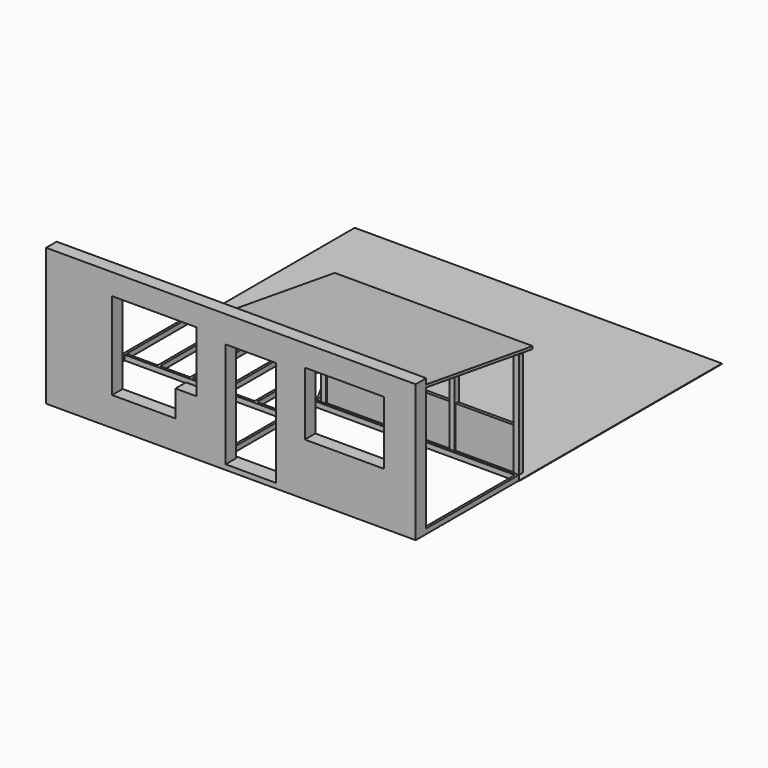
from build123d import *

# Parameters (mm, degrees)
F0_W      = 4.5
F0_H      = 4.5
F0_W_2    = 306
F0_H_2    = 151
F0_W_3    = 380.5
F0_H_3    = 185.5
F1_DEPTH  = 9.5
F2_W      = 150
F2_H      = 120
F3_DEPTH  = 25
F5_DEPTH  = 1
F8_DEPTH  = 260.001
F9_W      = 10
F9_H      = 10
F10_DEPTH = 200
F12_DEPTH = 375
F14_START = -2
F13_W     = 111.6666666667
F13_H     = 78.7117450237
F14_DEPTH = 6


with BuildPart() as f1:
    # F0 (on Top) → F1 (new body)
    with BuildSketch(Plane.XY):
        with Locations((-697.75, 2.25)):
            Rectangle(F0_W, F0_H)
        with Locations((-2.25, 217.75)):
            Rectangle(F0_W, F0_H)
        Polygon((-385, 0), (0, 0), (0, 215.5), (-4.5, 215.5), (-4.5, 4.5), (-385, 4.5), align=None)
        with Locations((-387.25, 2.25)):
            Rectangle(F0_W, F0_H)
        with Locations((-542.5, 2.25)):
            Rectangle(F0_W_2, F0_H)
        with Locations((-697.75, 80)):
            Rectangle(F0_W, F0_H_2)
        with Locations((-697.75, 157.75)):
            Rectangle(F0_W, F0_H)
        with Locations((-194.75, 217.75)):
            Rectangle(F0_W_3, F0_H)
        Polygon((-452.95, 160), (-448.45, 160), (-448.45, 337.8595075378), (-452.6587458478, 345.5), (-452.7784972623, 345.5), (-452.95, 341.9441229224), align=None)
        Polygon((-385, 160), (-385, 215.5), (-385, 220), (-385, 232), (-450, 350), (-700, 350), (-700, 160), (-695.5, 160), (-695.5, 345.5), (-636.55, 345.5), (-632.05, 345.5), (-575.35, 345.5), (-570.85, 345.5), (-514.15, 345.5), (-509.65, 345.5), (-452.7784972623, 345.5), (-452.6587458478, 345.5), (-448.45, 337.8595075378), (-389.5, 230.8425844609), (-389.5, 160), align=None)
        with Locations((-511.9, 252.75)):
            Rectangle(F0_W, F0_H_3)
        with Locations((-573.1, 252.75)):
            Rectangle(F0_W, F0_H_3)
        with Locations((-634.3, 252.75)):
            Rectangle(F0_W, F0_H_3)
        Polygon((-695.5, 155.5), (-389.5, 155.5), (-389.5, 160), (-448.45, 160), (-452.95, 160), (-509.65, 160), (-514.15, 160), (-570.85, 160), (-575.35, 160), (-632.05, 160), (-636.55, 160), (-695.5, 160), align=None)
        with Locations((-387.25, 157.75)):
            Rectangle(F0_W, F0_H)
        with Locations((-387.25, 80)):
            Rectangle(F0_W, F0_H_2)
    extrude(amount=F1_DEPTH)

    # F2 (on face) → F3 (join)
    with BuildSketch(Plane.XZ):
        Polygon((-700, 0), (0, 0), (0, 9.5), (-265, 9.5), (-360, 9.5), (-700, 9.5), align=None)
        Polygon((-265, 9.5), (0, 9.5), (0, 260), (-700, 260), (-700, 9.5), (-360, 9.5), (-360, 209.5), (-265, 209.5), align=None)
        Polygon((-455, 220), (-415, 220), (-415, 105), (-455, 105), (-455, 55), (-575, 55), (-575, 220), align=None, mode=Mode.SUBTRACT)
        with Locations((-135, 159.5)):
            Rectangle(F2_W, F2_H, mode=Mode.SUBTRACT)
    extrude(amount=F3_DEPTH)

    # F4 (on face) → F5 (join)
    with BuildSketch(Plane(origin=(0, 0, 0), x_dir=(1, 0, 0), z_dir=(0, 0, -1))):
        Polygon((0, -700), (0, -220), (-385, -220), (-385, -232), (-450, -350), (-695.5, -350), (-695.5, -700), align=None)
    extrude(amount=F5_DEPTH)

    # F7 (on face) → F8 (cut, through all)
    with BuildSketch(Plane.XY):
        Polygon((-695.5, 350), (-450, 350), (-385, 232), (-385, 220), (0, 220), (0, 700), (-695.5, 700), align=None)
    extrude(amount=F8_DEPTH, mode=Mode.SUBTRACT)

    # F9 (on face) → F10 (join)
    with BuildSketch(Plane.XY.offset(9.5)):
        with Locations((-5, 224.4888156652)):
            Rectangle(F9_W, F9_H)
        with Locations((-370, 224.4888156652)):
            Rectangle(F9_W, F9_H)
        with Locations((-248.3333333333, 224.4888156652)):
            Rectangle(F9_W, F9_H)
        with Locations((-126.6666666667, 224.4888156652)):
            Rectangle(F9_W, F9_H)
    extrude(amount=F10_DEPTH)


with BuildPart() as f12:
    # F11 (on face) → F12 (new body, through all)
    with BuildSketch(Plane.YZ):
        Polygon((251.3053696533, 206.1726945391), (252.0592171334, 211.1155392642), (0, 249.5578161747), (0, 244.5), (229.4888156652, 209.5), align=None)
    extrude(amount=-F12_DEPTH)


with BuildPart() as f14:
    # F13 (on face) → F14 (new body)
    with BuildSketch(Plane(origin=(0, 229.4888156652, 0), x_dir=(-1, 0, 0), z_dir=(0, 1, 0)).offset(F14_START)):
        with Locations((65.8333333333, 48.8558725119)):
            Rectangle(F13_W, F13_H)
    extrude(amount=-F14_DEPTH)


with BuildPart() as f14b:
    # F13 (on face) → F14, piece 2 (new body)
    with BuildSketch(Plane(origin=(0, 229.4888156652, 0), x_dir=(-1, 0, 0), z_dir=(0, 1, 0)).offset(F14_START)):
        with Locations((187.5, 48.8558725119)):
            Rectangle(F13_W, F13_H)
    extrude(amount=-F14_DEPTH)


with BuildPart() as f14c:
    # F13 (on face) → F14, piece 3 (new body)
    with BuildSketch(Plane(origin=(0, 229.4888156652, 0), x_dir=(-1, 0, 0), z_dir=(0, 1, 0)).offset(F14_START)):
        with Locations((309.1666666667, 48.8558725119)):
            Rectangle(F13_W, F13_H)
    extrude(amount=-F14_DEPTH)


solid = Compound([f1.part, f12.part, f14.part, f14b.part, f14c.part])
